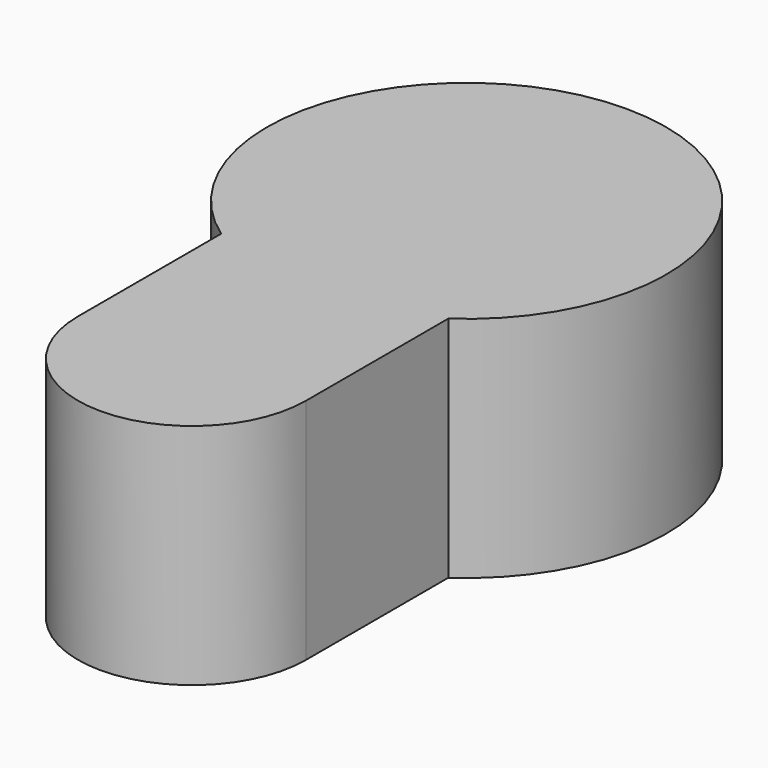
from build123d import *

# Parameters (mm, degrees)
F1_DEPTH = 25.4


with BuildPart() as f1:
    # F0 (on Top) → F1 (new body)
    with BuildSketch(Plane.XY):
        with BuildLine():
            Line((12.607468, -38.099831), (12.607468, -18.30307))
            ThreePointArc((12.607468, -18.30307), (21.22188, 6.6017), (0, 22.225))
            ThreePointArc((0, 22.225), (-21.188114, 6.709281), (-12.792532, -18.174206))
            Line((-12.792532, -18.174206), (-12.792532, -38.099831))
            ThreePointArc((-12.792532, -38.099831), (-0.092532, -50.799831), (12.607468, -38.099831))
        make_face()
    extrude(amount=F1_DEPTH)


solid = f1.part
